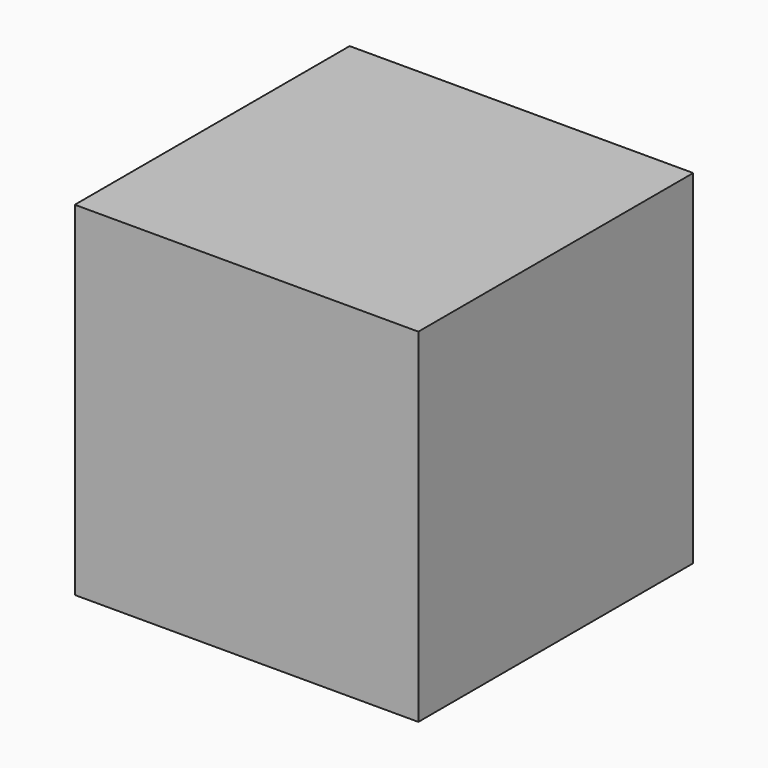
from build123d import *

# Parameters (mm, degrees)
SKETCH_W  = 5
SKETCH_H  = 5
PAD_DEPTH = 5


with BuildPart() as part:
    # Sketch → Pad (new body)
    with BuildSketch(Plane.XZ):
        Rectangle(SKETCH_W, SKETCH_H)
    extrude(amount=PAD_DEPTH)


solid = part.part
